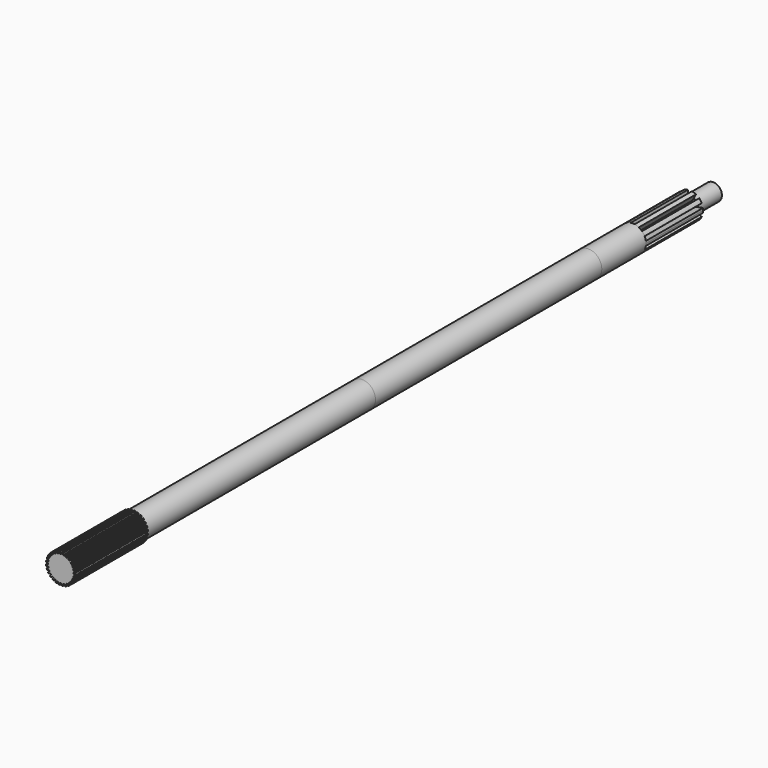
from build123d import *

# Parameters (mm, degrees)
F1_R      = 14.4653
F2_DEPTH  = 88.3158
F3_DEPTH  = 88.3158
F5_R      = 13.081
F6_DEPTH  = 279.4
F8_R      = 13.081
F9_DEPTH  = 276.225
F11_R     = 13.081
F12_DEPTH = 53.975
F14_R     = 13.081
F15_DEPTH = 69.85
F17_DEPTH = 69.85
F19_R     = 8.4582
F19_R_2   = 3.2512
F20_DEPTH = 28.575


with BuildPart() as f2:
    # F1 (on Front) → F2 (new body)
    with BuildSketch(Plane.XZ):
        Circle(F1_R)
    extrude(amount=F2_DEPTH)

    # F0 (on Front) → F3 (cut)
    with BuildSketch(Plane.XZ):
        Polygon((0.9779, 14.4653), (-0.9779, 14.4653), (-0.6223, 12.5095), (0.6223, 12.5095), align=None)
        Polygon((-2.176928, 12.334335), (-2.26545, 14.320228), (-4.172214, 13.885022), (-3.390323, 12.057386), align=None)
        Polygon((-4.866996, 11.540676), (-5.395201, 13.45708), (-7.157316, 12.60849), (-5.988342, 11.000664), align=None)
        Polygon((-7.313012, 10.168319), (-8.254414, 11.919138), (-9.78352, 10.699716), (-8.286079, 9.392323), align=None)
        Polygon((-9.392323, 8.286079), (-10.699716, 9.78352), (-11.919138, 8.254414), (-10.168319, 7.313012), align=None)
        Polygon((-11.000664, 5.988342), (-12.60849, 7.157316), (-13.45708, 5.395201), (-11.540676, 4.866996), align=None)
        Polygon((-12.057386, 3.390323), (-13.885022, 4.172214), (-14.320228, 2.26545), (-12.334335, 2.176928), align=None)
        Polygon((-12.5095, 0.6223), (-14.4653, 0.9779), (-14.4653, -0.9779), (-12.5095, -0.6223), align=None)
        Polygon((-12.334335, -2.176928), (-14.320228, -2.26545), (-13.885022, -4.172214), (-12.057386, -3.390323), align=None)
        Polygon((-11.540676, -4.866996), (-13.45708, -5.395201), (-12.60849, -7.157316), (-11.000664, -5.988342), align=None)
        Polygon((-10.168319, -7.313012), (-11.919138, -8.254414), (-10.699716, -9.78352), (-9.392323, -8.286079), align=None)
        Polygon((-8.286079, -9.392323), (-9.78352, -10.699716), (-8.254414, -11.919138), (-7.313012, -10.168319), align=None)
        Polygon((-5.988342, -11.000664), (-7.157316, -12.60849), (-5.395201, -13.45708), (-4.866996, -11.540676), align=None)
        Polygon((-3.390323, -12.057386), (-4.172214, -13.885022), (-2.26545, -14.320228), (-2.176928, -12.334335), align=None)
        Polygon((-0.6223, -12.5095), (-0.9779, -14.4653), (0.9779, -14.4653), (0.6223, -12.5095), align=None)
        Polygon((2.176928, -12.334335), (2.26545, -14.320228), (4.172214, -13.885022), (3.390323, -12.057386), align=None)
        Polygon((4.866996, -11.540676), (5.395201, -13.45708), (7.157316, -12.60849), (5.988342, -11.000664), align=None)
        Polygon((7.313012, -10.168319), (8.254414, -11.919138), (9.78352, -10.699716), (8.286079, -9.392323), align=None)
        Polygon((9.392323, -8.286079), (10.699716, -9.78352), (11.919138, -8.254414), (10.168319, -7.313012), align=None)
        Polygon((11.000664, -5.988342), (12.60849, -7.157316), (13.45708, -5.395201), (11.540676, -4.866996), align=None)
        Polygon((12.057386, -3.390323), (13.885022, -4.172214), (14.320228, -2.26545), (12.334335, -2.176928), align=None)
        Polygon((12.5095, -0.6223), (14.4653, -0.9779), (14.4653, 0.9779), (12.5095, 0.6223), align=None)
        Polygon((12.334335, 2.176928), (14.320228, 2.26545), (13.885022, 4.172214), (12.057386, 3.390323), align=None)
        Polygon((11.540676, 4.866996), (13.45708, 5.395201), (12.60849, 7.157316), (11.000664, 5.988342), align=None)
        Polygon((10.168319, 7.313012), (11.919138, 8.254414), (10.699716, 9.78352), (9.392323, 8.286079), align=None)
        Polygon((8.286079, 9.392323), (9.78352, 10.699716), (8.254414, 11.919138), (7.313012, 10.168319), align=None)
        Polygon((5.988342, 11.000664), (7.157316, 12.60849), (5.395201, 13.45708), (4.866996, 11.540676), align=None)
        Polygon((3.390323, 12.057386), (4.172214, 13.885022), (2.26545, 14.320228), (2.176928, 12.334335), align=None)
    extrude(amount=F3_DEPTH, mode=Mode.SUBTRACT)

    # F5 (on mid) → F6 (join)
    with BuildSketch(Plane.XZ):
        Circle(F5_R)
    extrude(amount=-F6_DEPTH)

    # F8 (on offset) → F9 (join)
    with BuildSketch(Plane(origin=(0, 279.4, 0), x_dir=(1, 0, 0), z_dir=(0, 1, 0))):
        Circle(F8_R)
    extrude(amount=F9_DEPTH)

    # F11 (on offset) → F12 (join)
    with BuildSketch(Plane(origin=(0, 555.625, 0), x_dir=(1, 0, 0), z_dir=(0, 1, 0))):
        Circle(F11_R)
    extrude(amount=F12_DEPTH)

    # F14 (on offset) → F15 (join)
    with BuildSketch(Plane(origin=(0, 609.6, 0), x_dir=(1, 0, 0), z_dir=(0, 1, 0))):
        Circle(F14_R)
    extrude(amount=F15_DEPTH)

    # F16 (on offset) → F17 (cut)
    with BuildSketch(Plane(origin=(0, 609.6, 0), x_dir=(1, 0, 0), z_dir=(0, 1, 0))):
        Polygon((1.9812, 13.081), (-1.9812, 13.081), (-0.9779, 5.6896), (0.9779, 5.6896), align=None)
        Polygon((-9.291643, 9.418231), (-4.135401, 4.028188), (-2.553125, 5.177778), (-6.085994, 11.747271), align=None)
        Polygon((-13.052995, 2.158018), (-5.713319, 0.828145), (-5.108943, 2.688221), (-11.828546, 5.926484), align=None)
        Polygon((-11.828546, -5.926484), (-5.108943, -2.688221), (-5.713319, -0.828145), (-13.052995, -2.158018), align=None)
        Polygon((-6.085994, -11.747271), (-2.553125, -5.177778), (-4.135401, -4.028188), (-9.291643, -9.418231), align=None)
        Polygon((1.9812, -13.081), (0.9779, -5.6896), (-0.9779, -5.6896), (-1.9812, -13.081), align=None)
        Polygon((9.291643, -9.418231), (4.135401, -4.028188), (2.553125, -5.177778), (6.085994, -11.747271), align=None)
        Polygon((13.052995, -2.158018), (5.713319, -0.828145), (5.108943, -2.688221), (11.828546, -5.926484), align=None)
        Polygon((11.828546, 5.926484), (5.108943, 2.688221), (5.713319, 0.828145), (13.052995, 2.158018), align=None)
        Polygon((6.085994, 11.747271), (2.553125, 5.177778), (4.135401, 4.028188), (9.291643, 9.418231), align=None)
    extrude(amount=F17_DEPTH, mode=Mode.SUBTRACT)

    # F19 (on offset) → F20 (join)
    with BuildSketch(Plane(origin=(0, 679.45, 0), x_dir=(1, 0, 0), z_dir=(0, 1, 0))):
        Circle(F19_R)
        Circle(F19_R_2, mode=Mode.SUBTRACT)
    extrude(amount=F20_DEPTH)


solid = f2.part
